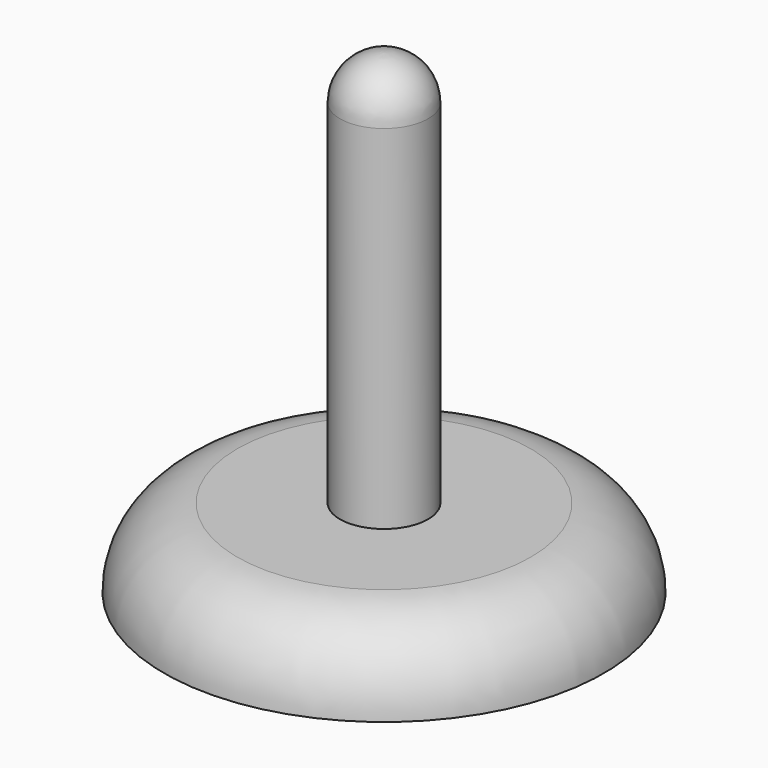
from build123d import *


with BuildPart() as f1:
    # F0 (on Front) → F1 (revolve)
    with BuildSketch(Plane.XZ):
        with BuildLine():
            Line((-6.35, -16.478023), (-6.35, -5.179652))
            Line((-6.35, -5.179652), (-21.151172, -5.179652))
            ThreePointArc((-21.151172, -5.179652), (-28.647743, -8.751992), (-31.692188, -16.478023))
            Line((-31.692188, -16.478023), (-6.35, -16.478023))
        make_face()
        with BuildLine():
            Line((0, 39.270348), (0, 51.970348))
            ThreePointArc((0, 51.970348), (-4.490128, 50.110476), (-6.35, 45.620348))
            Line((-6.35, 45.620348), (-6.35, -5.179652))
            Line((-6.35, -5.179652), (-6.35, -16.478023))
            Line((-6.35, -16.478023), (0, -16.478023))
            Line((0, -16.478023), (0, 39.270348))
        make_face()
    revolve(axis=Axis((0, 0, 11.396163), (0, 0, 1)))


solid = f1.part
